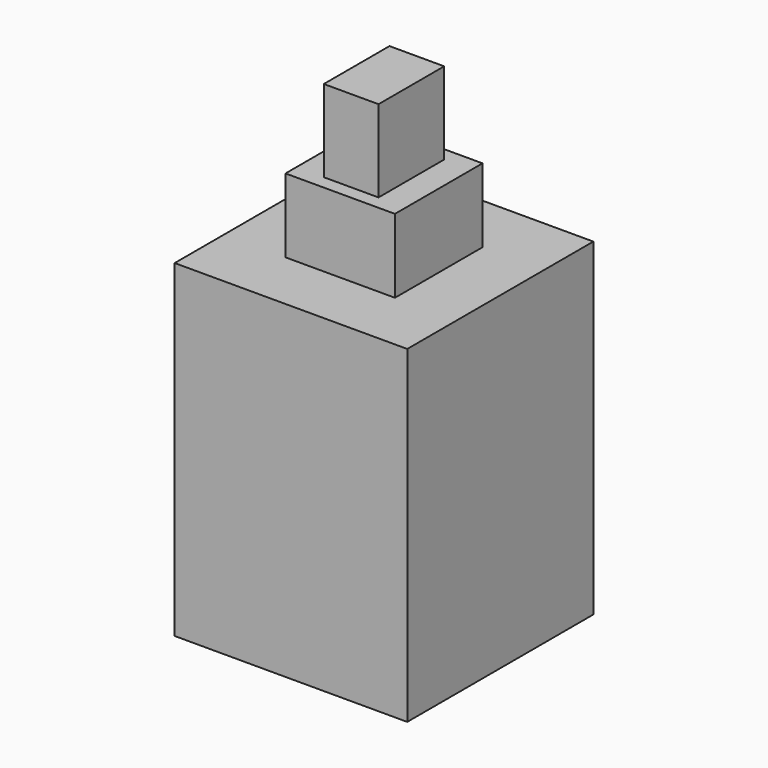
from build123d import *

# Parameters (mm, degrees)
BOX075_W     = 4
BOX075_H     = 4
BOX075_DEPTH = 5.5
BOX076_W     = 8.5
BOX076_H     = 8.5
BOX076_DEPTH = 3.5
BOX078_W     = 2
BOX078_H     = 3
BOX078_DEPTH = 3
BOX074_W     = 8.5
BOX074_H     = 8.5
BOX074_DEPTH = 8.5


with BuildPart() as plunger:
    # Box075 → Box075 (new body)
    with BuildSketch(Plane(origin=(-2, -2, 5.7), x_dir=(1, 0, 0), z_dir=(0, 0, 1))):
        with Locations((2, 2)):
            Rectangle(BOX075_W, BOX075_H)
    extrude(amount=BOX075_DEPTH)


with BuildPart() as pins:
    # Box076 → Box076 (new body)
    with BuildSketch(Plane(origin=(-4.25, -4.25, -3.5), x_dir=(1, 0, 0), z_dir=(0, 0, 1))):
        with Locations((4.25, 4.25)):
            Rectangle(BOX076_W, BOX076_H)
    extrude(amount=BOX076_DEPTH)


with BuildPart() as plunger001:
    # Box078 → Box078 (new body)
    with BuildSketch(Plane(origin=(-1, -1.5, 11.2), x_dir=(1, 0, 0), z_dir=(0, 0, 1))):
        with Locations((1, 1.5)):
            Rectangle(BOX078_W, BOX078_H)
    extrude(amount=BOX078_DEPTH)


with BuildPart() as switch001:
    # Box074 → Box074 (new body)
    with BuildSketch(Plane(origin=(-4.25, -4.25, 0), x_dir=(1, 0, 0), z_dir=(0, 0, 1))):
        with Locations((4.25, 4.25)):
            Rectangle(BOX074_W, BOX074_H)
    extrude(amount=BOX074_DEPTH)

    # Fusion024: union plunger, pins, plunger001
    add(plunger.part)
    add(pins.part)
    add(plunger001.part)


with BuildPart() as switch001_1:
    # Body001 placement: moved
    add(switch001.part.moved(Location((8.5, 0, 5))))


solid = switch001_1.part
